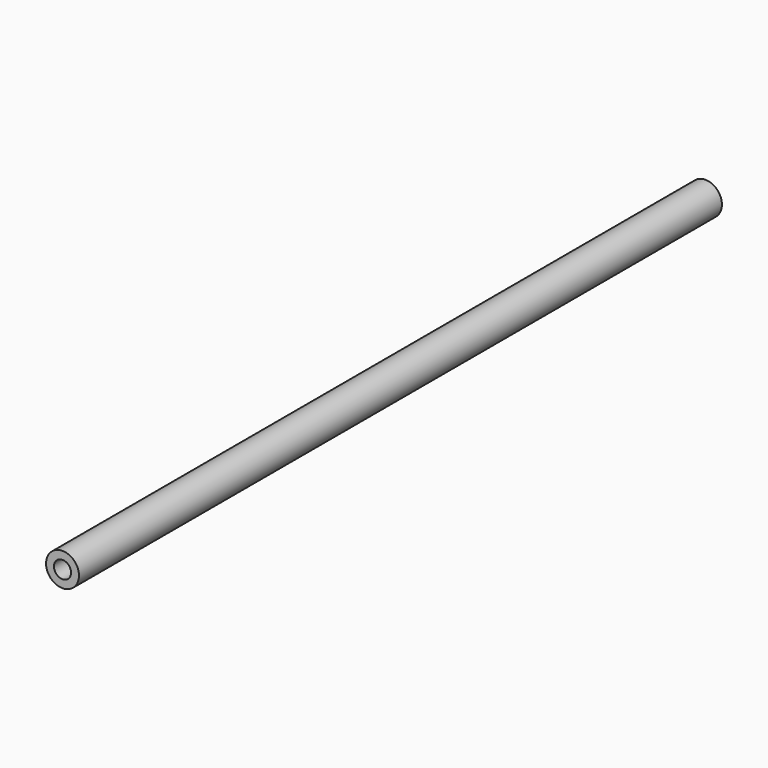
from build123d import *

# Parameters (mm, degrees)
F0_R     = 3.175
F1_DEPTH = 155
F2_D     = 3.3
F2_DEPTH = 16
F2_TIP   = 0.9914200214
F4_D     = 3.3
F4_DEPTH = 16
F4_TIP   = 0.9914200214


with BuildPart() as f1:
    # F0 (on Front) → F1 (new body)
    with BuildSketch(Plane.XZ):
        Circle(F0_R)
    extrude(amount=F1_DEPTH)

    # F2
    with Locations(Plane(origin=(0, 0, 0), x_dir=(1, 0, 0), z_dir=(0, 1, 0))):
        with Locations((0, 0)):
            Hole(F2_D / 2, depth=F2_DEPTH)
            with Locations((0, 0, -(F2_DEPTH + F2_TIP / 2))):  # 118° drill point
                Cone(0, F2_D / 2, F2_TIP, mode=Mode.SUBTRACT)

    # F4
    with Locations(Plane.XZ.offset(155)):
        with Locations((0, 0)):
            Hole(F4_D / 2, depth=F4_DEPTH)
            with Locations((0, 0, -(F4_DEPTH + F4_TIP / 2))):  # 118° drill point
                Cone(0, F4_D / 2, F4_TIP, mode=Mode.SUBTRACT)


solid = f1.part
